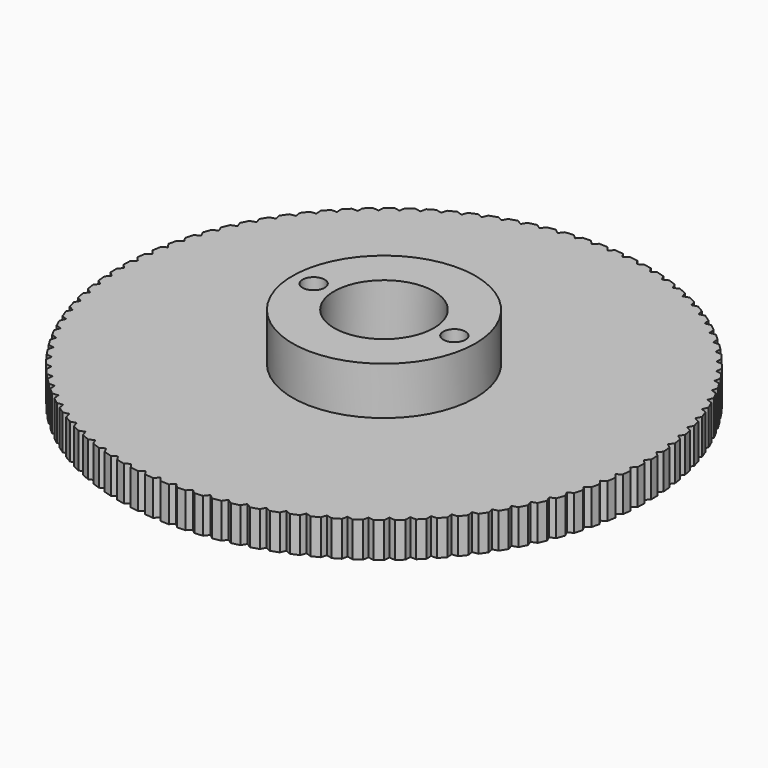
from build123d import *

# Parameters (mm, degrees)
F0_R     = 23.8125
F0_R_2   = 8.255
F1_DEPTH = 3.175
F0_R_3   = 4.5
F2_DEPTH = 7.493
F3_R     = 9.525
F3_R_2   = 8.255
F4_DEPTH = 1.5875
F6_D     = 2
F7_R     = 24.972228
F8_DEPTH = 3.176


with BuildPart() as f1:
    # F0 (on Top) → F1 (new body)
    with BuildSketch(Plane.XY):
        Circle(F0_R)
        Circle(F0_R_2, mode=Mode.SUBTRACT)
    extrude(amount=F1_DEPTH)

    # F0 (on Top) → F2 (join)
    with BuildSketch(Plane.XY):
        Circle(F0_R_2)
        Circle(F0_R_3, mode=Mode.SUBTRACT)
    extrude(amount=F2_DEPTH)

    # F3 (on face) → F4 (cut)
    with BuildSketch(Plane.XY):
        Circle(F3_R)
        Circle(F3_R_2, mode=Mode.SUBTRACT)
        Circle(F3_R_2)
    extrude(amount=F4_DEPTH, mode=Mode.SUBTRACT)

    # F6 (through all)
    with Locations(Plane(origin=(0, 0, 1.5875), x_dir=(1, 0, 0), z_dir=(0, 0, -1))):
        with Locations((-6.35, 0), (6.35, 0)):
            Hole(F6_D / 2)

    # F7 (on face) → F8 (cut, through all)
    with BuildSketch(Plane.XY.offset(3.175)):
        Circle(F7_R)
        Polygon((0, 23.438485), (0.374003, 23.809563), (1.121749, 23.786064), (1.471715, 23.392235), (1.86828, 23.739096), (2.613075, 23.668692), (2.937621, 23.253666), (3.355184, 23.574942), (4.094088, 23.457911), (4.391934, 23.023325), (4.828846, 23.317749), (5.558944, 23.154552), (5.828914, 22.702122), (6.283451, 22.968531), (7.001861, 22.759813), (7.24289, 22.291324), (7.713258, 22.528666), (8.417145, 22.275251), (8.628282, 21.792552), (9.112624, 21.999892), (9.79921, 21.702779), (9.979622, 21.207775), (10.476027, 21.384294), (11.142603, 21.044656), (11.291576, 20.539301), (11.798086, 20.684301), (12.44202, 20.30348), (12.558968, 19.789767), (13.073583, 19.902678), (13.692335, 19.482175), (13.776796, 18.962133), (14.297485, 19.042507), (14.888612, 18.583982), (14.940253, 18.059663), (15.464961, 18.107185), (16.02613, 17.612447), (16.044747, 17.08592), (16.571404, 17.100401), (17.100401, 16.571404), (17.08592, 16.044747), (17.612447, 16.02613), (18.107185, 15.464961), (18.059663, 14.940253), (18.583982, 14.888612), (19.042507, 14.297485), (18.962133, 13.776796), (19.482175, 13.692335), (19.902678, 13.073583), (19.789767, 12.558968), (20.30348, 12.44202), (20.684301, 11.798086), (20.539301, 11.291576), (21.044656, 11.142603), (21.384294, 10.476027), (21.207775, 9.979622), (21.702779, 9.79921), (21.999892, 9.112624), (21.792552, 8.628282), (22.275251, 8.417145), (22.528666, 7.713258), (22.291324, 7.24289), (22.759813, 7.001861), (22.968531, 6.283451), (22.702122, 5.828914), (23.154552, 5.558944), (23.317749, 4.828846), (23.023325, 4.391934), (23.457911, 4.094088), (23.574942, 3.355184), (23.253666, 2.937621), (23.668692, 2.613075), (23.739096, 1.86828), (23.392235, 1.471715), (23.786064, 1.121749), (23.809563, 0.374003), (23.438485, 0), (23.809563, -0.374003), (23.786064, -1.121749), (23.392235, -1.471715), (23.739096, -1.86828), (23.668692, -2.613075), (23.253666, -2.937621), (23.574942, -3.355184), (23.457911, -4.094088), (23.023325, -4.391934), (23.317749, -4.828846), (23.154552, -5.558944), (22.702122, -5.828914), (22.968531, -6.283451), (22.759813, -7.001861), (22.291324, -7.24289), (22.528666, -7.713258), (22.275251, -8.417145), (21.792552, -8.628282), (21.999892, -9.112624), (21.702779, -9.79921), (21.207775, -9.979622), (21.384294, -10.476027), (21.044656, -11.142603), (20.539301, -11.291576), (20.684301, -11.798086), (20.30348, -12.44202), (19.789767, -12.558968), (19.902678, -13.073583), (19.482175, -13.692335), (18.962133, -13.776796), (19.042507, -14.297485), (18.583982, -14.888612), (18.059663, -14.940253), (18.107185, -15.464961), (17.612447, -16.02613), (17.08592, -16.044747), (17.100401, -16.571404), (16.571404, -17.100401), (16.044747, -17.08592), (16.02613, -17.612447), (15.464961, -18.107185), (14.940253, -18.059663), (14.888612, -18.583982), (14.297485, -19.042507), (13.776796, -18.962133), (13.692335, -19.482175), (13.073583, -19.902678), (12.558968, -19.789767), (12.44202, -20.30348), (11.798086, -20.684301), (11.291576, -20.539301), (11.142603, -21.044656), (10.476027, -21.384294), (9.979622, -21.207775), (9.79921, -21.702779), (9.112624, -21.999892), (8.628282, -21.792552), (8.417145, -22.275251), (7.713258, -22.528666), (7.24289, -22.291324), (7.001861, -22.759813), (6.283451, -22.968531), (5.828914, -22.702122), (5.558944, -23.154552), (4.828846, -23.317749), (4.391934, -23.023325), (4.094088, -23.457911), (3.355184, -23.574942), (2.937621, -23.253666), (2.613075, -23.668692), (1.86828, -23.739096), (1.471715, -23.392235), (1.121749, -23.786064), (0.374003, -23.809563), (0, -23.438485), (-0.374003, -23.809563), (-1.121749, -23.786064), (-1.471715, -23.392235), (-1.86828, -23.739096), (-2.613075, -23.668692), (-2.937621, -23.253666), (-3.355184, -23.574942), (-4.094088, -23.457911), (-4.391934, -23.023325), (-4.828846, -23.317749), (-5.558944, -23.154552), (-5.828914, -22.702122), (-6.283451, -22.968531), (-7.001861, -22.759813), (-7.24289, -22.291324), (-7.713258, -22.528666), (-8.417145, -22.275251), (-8.628282, -21.792552), (-9.112624, -21.999892), (-9.79921, -21.702779), (-9.979622, -21.207775), (-10.476027, -21.384294), (-11.142603, -21.044656), (-11.291576, -20.539301), (-11.798086, -20.684301), (-12.44202, -20.30348), (-12.558968, -19.789767), (-13.073583, -19.902678), (-13.692335, -19.482175), (-13.776796, -18.962133), (-14.297485, -19.042507), (-14.888612, -18.583982), (-14.940253, -18.059663), (-15.464961, -18.107185), (-16.02613, -17.612447), (-16.044747, -17.08592), (-16.571404, -17.100401), (-17.100401, -16.571404), (-17.08592, -16.044747), (-17.612447, -16.02613), (-18.107185, -15.464961), (-18.059663, -14.940253), (-18.583982, -14.888612), (-19.042507, -14.297485), (-18.962133, -13.776796), (-19.482175, -13.692335), (-19.902678, -13.073583), (-19.789767, -12.558968), (-20.30348, -12.44202), (-20.684301, -11.798086), (-20.539301, -11.291576), (-21.044656, -11.142603), (-21.384294, -10.476027), (-21.207775, -9.979622), (-21.702779, -9.79921), (-21.999892, -9.112624), (-21.792552, -8.628282), (-22.275251, -8.417145), (-22.528666, -7.713258), (-22.291324, -7.24289), (-22.759813, -7.001861), (-22.968531, -6.283451), (-22.702122, -5.828914), (-23.154552, -5.558944), (-23.317749, -4.828846), (-23.023325, -4.391934), (-23.457911, -4.094088), (-23.574942, -3.355184), (-23.253666, -2.937621), (-23.668692, -2.613075), (-23.739096, -1.86828), (-23.392235, -1.471715), (-23.786064, -1.121749), (-23.809563, -0.374003), (-23.438485, 0), (-23.809563, 0.374003), (-23.786064, 1.121749), (-23.392235, 1.471715), (-23.739096, 1.86828), (-23.668692, 2.613075), (-23.253666, 2.937621), (-23.574942, 3.355184), (-23.457911, 4.094088), (-23.023325, 4.391934), (-23.317749, 4.828846), (-23.154552, 5.558944), (-22.702122, 5.828914), (-22.968531, 6.283451), (-22.759813, 7.001861), (-22.291324, 7.24289), (-22.528666, 7.713258), (-22.275251, 8.417145), (-21.792552, 8.628282), (-21.999892, 9.112624), (-21.702779, 9.79921), (-21.207775, 9.979622), (-21.384294, 10.476027), (-21.044656, 11.142603), (-20.539301, 11.291576), (-20.684301, 11.798086), (-20.30348, 12.44202), (-19.789767, 12.558968), (-19.902678, 13.073583), (-19.482175, 13.692335), (-18.962133, 13.776796), (-19.042507, 14.297485), (-18.583982, 14.888612), (-18.059663, 14.940253), (-18.107185, 15.464961), (-17.612447, 16.02613), (-17.08592, 16.044747), (-17.100401, 16.571404), (-16.571404, 17.100401), (-16.044747, 17.08592), (-16.02613, 17.612447), (-15.464961, 18.107185), (-14.940253, 18.059663), (-14.888612, 18.583982), (-14.297485, 19.042507), (-13.776796, 18.962133), (-13.692335, 19.482175), (-13.073583, 19.902678), (-12.558968, 19.789767), (-12.44202, 20.30348), (-11.798086, 20.684301), (-11.291576, 20.539301), (-11.142603, 21.044656), (-10.476027, 21.384294), (-9.979622, 21.207775), (-9.79921, 21.702779), (-9.112624, 21.999892), (-8.628282, 21.792552), (-8.417145, 22.275251), (-7.713258, 22.528666), (-7.24289, 22.291324), (-7.001861, 22.759813), (-6.283451, 22.968531), (-5.828914, 22.702122), (-5.558944, 23.154552), (-4.828846, 23.317749), (-4.391934, 23.023325), (-4.094088, 23.457911), (-3.355184, 23.574942), (-2.937621, 23.253666), (-2.613075, 23.668692), (-1.86828, 23.739096), (-1.471715, 23.392235), (-1.121749, 23.786064), (-0.374003, 23.809563), align=None, mode=Mode.SUBTRACT)
    extrude(amount=-F8_DEPTH, mode=Mode.SUBTRACT)


solid = f1.part
